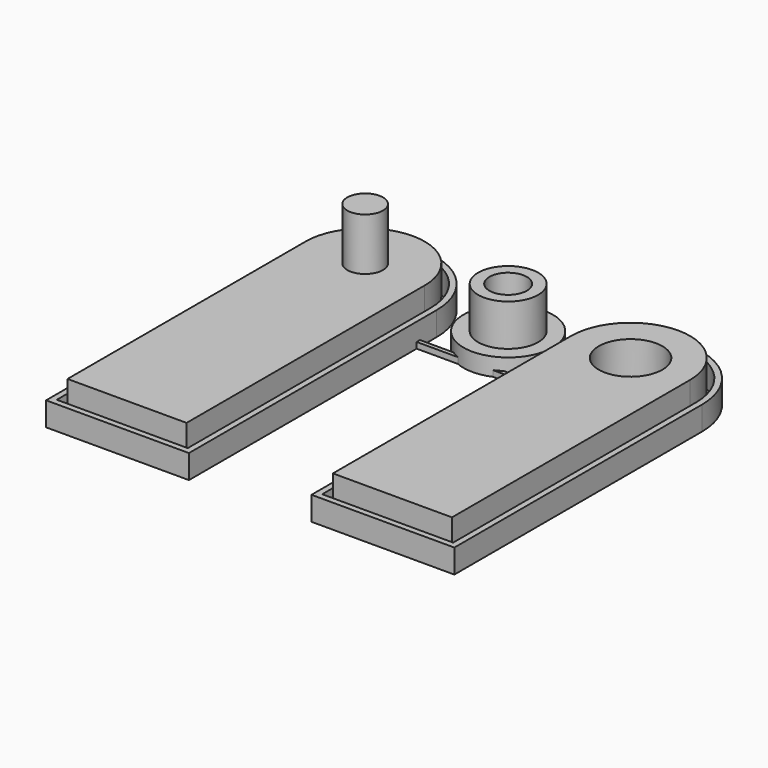
from build123d import *

# Parameters (mm, degrees)
F1_R      = 3
F5_DEPTH  = 7
F6_SIZE   = 2
F7_DEPTH  = 15.8
F1_R_2    = 5.35
F8_DEPTH  = 7
F9_SIZE   = 2
F1_R_3    = 7.5
F1_R_4    = 5.05
F10_DEPTH = 3
F1_R_5    = 3.15
F11_DEPTH = 10
F12_DEPTH = 1
F13_DEPTH = 4
F14_W     = 38.3726581931
F14_H     = 0.6922930479
F15_DEPTH = 1


with BuildPart() as f5:
    # F1 (on Top) → F5 (new body)
    with BuildSketch(Plane.XY):
        with BuildLine():
            Line((-67.5440824628, 59.7986807566), (-67.5440824628, 9.7986807566))
            Line((-67.5440824628, 9.7986807566), (-47.5440824628, 9.7986807566))
            Line((-47.5440824628, 9.7986807566), (-47.5440824628, 59.7986807566))
            ThreePointArc((-47.5440824628, 59.7986807566), (-57.5440824628, 69.7986807566), (-67.5440824628, 59.7986807566))
        make_face()
        with Locations((-57.5440824628, 59.7986807566)):
            Circle(F1_R, mode=Mode.SUBTRACT)
    extrude(amount=F5_DEPTH)

    # F6
    f6_edges = [f5.edges().sort_by_distance(p)[0] for p in [
        (-57.544082, 9.798681, 0),
        (-47.544082, 34.798681, 0),
        (-57.544082, 69.798681, 0),
        (-67.544082, 34.798681, 0),
    ]]
    chamfer(f6_edges, length=F6_SIZE)

    # F1 (on Top) → F7 (join)
    with BuildSketch(Plane.XY):
        with Locations((-57.5440824628, 59.7986807566)):
            Circle(F1_R)
    extrude(amount=F7_DEPTH)



with BuildPart() as f8:
    # F1 (on Top) → F8 (new body)
    with BuildSketch(Plane.XY):
        with BuildLine():
            ThreePointArc((-3.5915456533, 60.5911472063), (-13.5915456533, 70.5911472063), (-23.5915456533, 60.5911472063))
            Line((-23.5915456533, 60.5911472063), (-23.5915456533, 10.5911472063))
            Line((-23.5915456533, 10.5911472063), (-3.5915456533, 10.5911472063))
            Line((-3.5915456533, 10.5911472063), (-3.5915456533, 60.5911472063))
        make_face()
        with Locations((-13.5915456533, 60.5911472063)):
            Circle(F1_R_2, mode=Mode.SUBTRACT)
    extrude(amount=F8_DEPTH)

    # F9
    f9_edges = [f8.edges().sort_by_distance(p)[0] for p in [
        (-13.591546, 10.591147, 0),
        (-3.591546, 35.591147, 0),
        (-13.591546, 70.591147, 0),
        (-23.591546, 35.591147, 0),
    ]]
    chamfer(f9_edges, length=F9_SIZE)


with BuildPart() as f10:
    # F1 (on Top) → F10 (new body)
    with BuildSketch(Plane.XY):
        with Locations((-35.6929131355, 62.5116448375)):
            Circle(F1_R_3)
        with Locations((-35.6929131355, 62.5116448375)):
            Circle(F1_R_4, mode=Mode.SUBTRACT)
    extrude(amount=F10_DEPTH)

    # F1 (on Top) → F11 (join)
    with BuildSketch(Plane.XY):
        with Locations((-35.6929131355, 62.5116448375)):
            Circle(F1_R_4)
        with Locations((-35.6929131355, 62.5116448375)):
            Circle(F1_R_5, mode=Mode.SUBTRACT)
    extrude(amount=F11_DEPTH)

    # F1 (on Top) → F12 (join)
    with BuildSketch(Plane.XY):
        with Locations((-35.6929131355, 62.5116448375)):
            Circle(F1_R_5)
    extrude(amount=F12_DEPTH)


with BuildPart() as f13:
    # F1 (on Top) → F13 (new body)
    with BuildSketch(Plane.XY):
        with BuildLine():
            Line((-69.5440824628, 59.7986807566), (-69.5440824628, 7.7986807566))
            Line((-69.5440824628, 7.7986807566), (-45.5440824628, 7.7986807566))
            Line((-45.5440824628, 7.7986807566), (-45.5440824628, 59.7986807566))
            ThreePointArc((-45.5440824628, 59.7986807566), (-57.5440824628, 71.7986807566), (-69.5440824628, 59.7986807566))
        make_face()
        with BuildLine():
            ThreePointArc((-68.5440824628, 59.7986807566), (-57.5440824628, 70.7986807566), (-46.5440824628, 59.7986807566))
            Line((-46.5440824628, 59.7986807566), (-46.5440824628, 8.7986807566))
            Line((-46.5440824628, 8.7986807566), (-68.5440824628, 8.7986807566))
            Line((-68.5440824628, 8.7986807566), (-68.5440824628, 59.7986807566))
        make_face(mode=Mode.SUBTRACT)
    extrude(amount=F13_DEPTH)


with BuildPart() as f13b:
    # F1 (on Top) → F13, piece 2 (new body)
    with BuildSketch(Plane.XY):
        with BuildLine():
            Line((-25.5915456533, 60.5911472063), (-25.5915456533, 8.5911472063))
            Line((-25.5915456533, 8.5911472063), (-1.5915456533, 8.5911472063))
            Line((-1.5915456533, 8.5911472063), (-1.5915456533, 60.5911472063))
            ThreePointArc((-1.5915456533, 60.5911472063), (-13.5915456533, 72.5911472063), (-25.5915456533, 60.5911472063))
        make_face()
        with BuildLine():
            Line((-2.5915456533, 9.5911472063), (-24.5915456533, 9.5911472063))
            Line((-24.5915456533, 9.5911472063), (-24.5915456533, 60.5911472063))
            ThreePointArc((-24.5915456533, 60.5911472063), (-13.5915456533, 71.5911472063), (-2.5915456533, 60.5911472063))
            Line((-2.5915456533, 60.5911472063), (-2.5915456533, 9.5911472063))
        make_face(mode=Mode.SUBTRACT)
    extrude(amount=F13_DEPTH)


with BuildPart() as f5_1:
    add(f5.part)

    add(f8.part)  # F15 merges F8

    add(f10.part)  # F15 merges F10

    add(f13.part)  # F15 merges F13

    add(f13b.part)  # F15 merges F13b
    # F14 (on Top) → F15 (join)
    with BuildSketch(Plane.XY):
        with Locations((-36.1423902214, 55.9608265758)):
            Rectangle(F14_W, F14_H)
    extrude(amount=F15_DEPTH)


solid = f5_1.part
